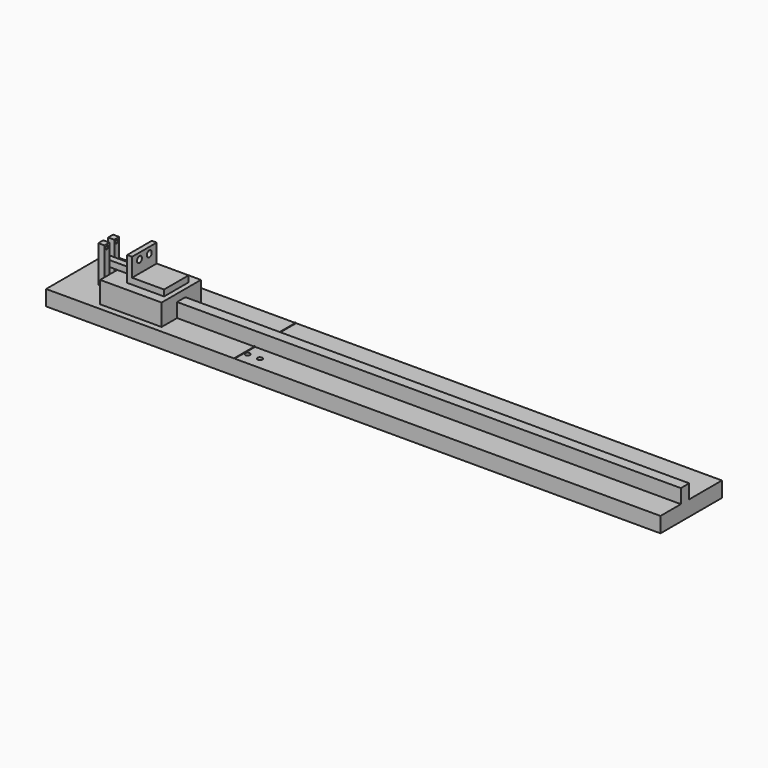
from build123d import *

# Parameters (mm, degrees)
F0_W           = 1000
F0_H           = 125
F1_DEPTH       = 25
F2_W           = 820
F2_H           = 17
F3_DEPTH       = 23
F4_R           = 4
F5_DEPTH       = 25
F6_W           = 100
F6_H           = 80
F7_DEPTH       = 35
F8_W           = 50
F8_H           = 10
F9_DEPTH       = 10
F10_W          = 10
F10_H          = 60
F10_R          = 2.5
F11_DEPTH      = 10
F13_DEPTH      = 20
F13_DEPTH_BACK = 30
F14_R          = 5
F15_DEPTH      = 25
F17_W          = 1
F17_H          = 125
F18_DEPTH      = 1


with BuildPart() as f1:
    # F0 (on Top) → F1 (new body)
    with BuildSketch(Plane.XY):
        with Locations((500, 62.5)):
            Rectangle(F0_W, F0_H)
    extrude(amount=F1_DEPTH)

    # F2 (on face) → F3 (join)
    with BuildSketch(Plane.XY.offset(25)):
        with Locations((590, 50)):
            Rectangle(F2_W, F2_H)
    extrude(amount=F3_DEPTH)

    # F4 (on face) → F5 (cut, through all)
    with BuildSketch(Plane.XY.offset(25)):
        with Locations((312, 20)):
            Circle(F4_R)
        with Locations((332, 20)):
            Circle(F4_R)
    extrude(amount=-F5_DEPTH, mode=Mode.SUBTRACT)

    # F6 (on face) → F7 (join)
    with BuildSketch(Plane.XY.offset(25)):
        with Locations((130, 50)):
            Rectangle(F6_W, F6_H)
    extrude(amount=F7_DEPTH)

    # F8 (on face) → F9 (join)
    with BuildSketch(Plane.XY.offset(60)):
        with Locations((82, 50)):
            Rectangle(F8_W, F8_H)
    extrude(amount=F9_DEPTH)

    # F10 (on face) → F11 (join)
    with BuildSketch(Plane(origin=(57, 0, 0), x_dir=(0, -1, 0), z_dir=(-1, 0, 0))):
        with Locations((-60, 65)):
            Rectangle(F10_W, F10_H)
        with Locations((-60, 90)):
            Circle(F10_R, mode=Mode.SUBTRACT)
        with Locations((-40, 65)):
            Rectangle(F10_W, F10_H)
        with Locations((-40, 90)):
            Circle(F10_R, mode=Mode.SUBTRACT)
    extrude(amount=-F11_DEPTH)

    # F12 (on face) → F13 (join, two sides)
    with BuildSketch(Plane.XZ.offset(-45)) as f13_sk:
        Polygon((112, 60), (172, 60), (172, 70), (120, 70), (120, 100), (112, 100), align=None)
    extrude(amount=F13_DEPTH)
    extrude(f13_sk.sketch, amount=-F13_DEPTH_BACK)

    # F14 (on face) → F15 (cut)
    with BuildSketch(Plane.YZ.offset(120)):
        with Locations((40, 90)):
            Circle(F14_R)
        with Locations((60, 90)):
            Circle(F14_R)
    extrude(amount=-F15_DEPTH, mode=Mode.SUBTRACT)

    # F17 (on face) → F18 (join)
    with BuildSketch(Plane.XY.offset(25)):
        with Locations((306.5, 62.5)):
            Rectangle(F17_W, F17_H)
    extrude(amount=F18_DEPTH)


solid = f1.part
